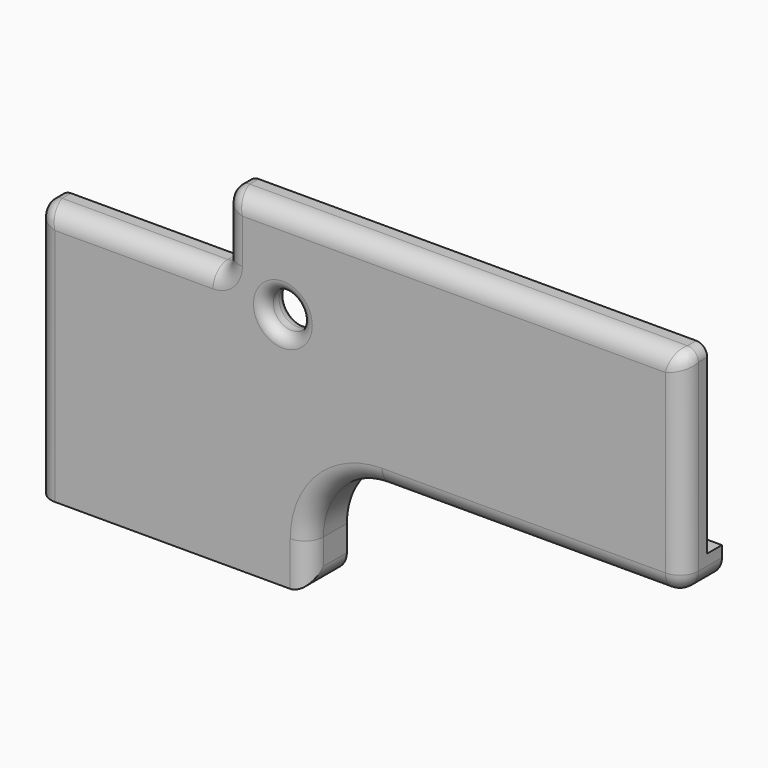
from build123d import *

# Parameters (mm, degrees)
SKETCH_R     = 5
PAD_DEPTH    = 8
PAD001_DEPTH = 13
FILLET_R     = 3
FILLET001_R  = 5
FILLET002_R  = 20
FILLET003_R  = 5
FILLET004_R  = 3


with BuildPart() as part:
    # Sketch → Pad (new body)
    with BuildSketch(Plane.XZ):
        Polygon((0, 0), (66, 0), (66, 40), (176, 40), (176, 90), (51, 90), (51, 70), (11, 70), (0, 70), align=None)
        with Locations((67, 65)):
            Circle(SKETCH_R, mode=Mode.SUBTRACT)
    extrude(amount=PAD_DEPTH)

    # Sketch001 (on Face12 of Pad) → Pad001 (join)
    with BuildSketch(Plane.XZ.offset(8)):
        Polygon((66, 0), (66, 40), (176, 40), (176, 32), (74, 32), (74, 0), align=None)
    extrude(amount=-PAD001_DEPTH)

    # Fillet
    fillet_edges = [part.edges().sort_by_distance(p)[0] for p in [
        (176, -4, 90),
        (51, -4, 90),
        (51, -4, 70),
        (0, -4, 70),
    ]]
    fillet(fillet_edges, radius=FILLET_R)

    # Fillet001
    fillet001_edges = [part.edges().sort_by_distance(p)[0] for p in [
        (0, -8, 33.5),
    ]]
    fillet(fillet001_edges, radius=FILLET001_R)

    # Fillet002
    fillet002_edges = [part.edges().sort_by_distance(p)[0] for p in [
        (66, 2.5, 40),
        (74, -1.5, 32),
    ]]
    fillet(fillet002_edges, radius=FILLET002_R)

    # Fillet003
    fillet003_edges = [part.edges().sort_by_distance(p)[0] for p in [
        (79.857864, -8, 26.142136),
        (74, -1.5, 0),
    ]]
    fillet(fillet003_edges, radius=FILLET003_R)

    # Fillet004
    fillet004_edges = [part.edges().sort_by_distance(p)[0] for p in [
        (62, -8, 65),
        (62, 0, 65),
    ]]
    fillet(fillet004_edges, radius=FILLET004_R)


solid = part.part
